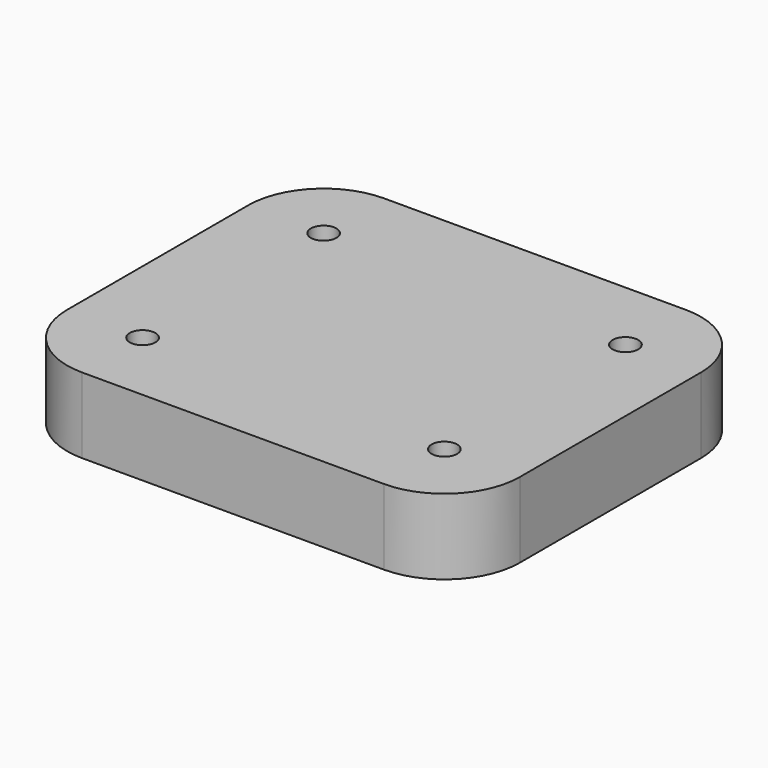
from build123d import *

# Parameters (mm, degrees)
F0_W     = 76.2
F0_H     = 63.5
F0_R     = 2.15265
F1_DEPTH = 12.7
F2_R     = 12.7


with BuildPart() as f1:
    # F0 (on Top) → F1 (new body)
    with BuildSketch(Plane.XY):
        Rectangle(F0_W, F0_H)
        with Locations((-25.4, -19.05)):
            Circle(F0_R, mode=Mode.SUBTRACT)
        with Locations((25.4, -19.05)):
            Circle(F0_R, mode=Mode.SUBTRACT)
        with Locations((-25.4, 19.05)):
            Circle(F0_R, mode=Mode.SUBTRACT)
        with Locations((25.4, 19.05)):
            Circle(F0_R, mode=Mode.SUBTRACT)
    extrude(amount=F1_DEPTH)

    # F2
    f2_edges = [f1.edges().sort_by_distance(p)[0] for p in [
        (-38.1, -31.75, 6.35),
        (38.1, -31.75, 6.35),
        (38.1, 31.75, 6.35),
        (-38.1, 31.75, 6.35),
    ]]
    fillet(f2_edges, radius=F2_R)


solid = f1.part
